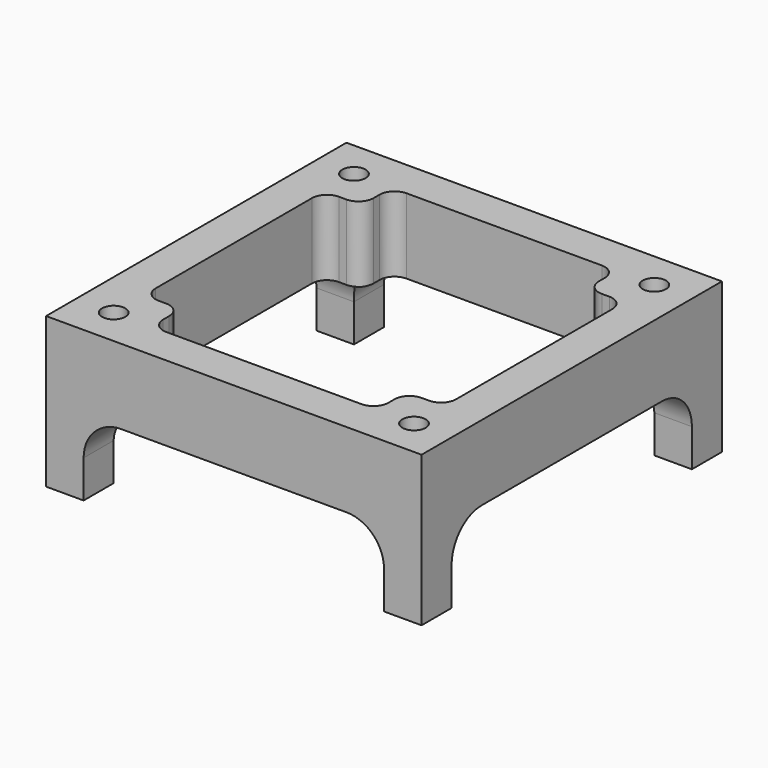
from build123d import *

# Parameters (mm, degrees)
SKETCH225_W             = 50
SKETCH225_H             = 50
PAD038_DEPTH            = 20
POCKET188_DEPTH         = 20.001
POCKET189_DEPTH         = 50.001
POCKET190_DEPTH         = 50.001
SKETCH229_R             = 1.55
POCKET191_DEPTH         = 5
SKETCH230_R             = 1.55
POCKET192_DEPTH         = 3
SKETCH231_R             = 1.55
POCKET193_DEPTH         = 3
BODY039_PLACEMENT_ANGLE = 90


with BuildPart() as part:
    # Sketch225 → Pad038 (new body)
    with BuildSketch(Plane.XY):
        Rectangle(SKETCH225_W, SKETCH225_H)
    extrude(amount=PAD038_DEPTH)

    # Sketch226 (on Face6 of Pad038) → Pocket188 (cut, through all)
    with BuildSketch(Plane.XY.offset(20)):
        with BuildLine():
            Line((-18, 15), (-17, 15))
            ThreePointArc((-17, 15), (-15.585786, 15.585786), (-15, 17))
            Line((-15, 17), (-15, 18))
            ThreePointArc((-13, 20), (-14.414214, 19.414214), (-15, 18))
            Line((-13, 20), (13, 20))
            ThreePointArc((15, 18), (14.414214, 19.414214), (13, 20))
            Line((15, 18), (15, 17))
            ThreePointArc((15, 17), (15.585786, 15.585786), (17, 15))
            Line((17, 15), (18, 15))
            ThreePointArc((20, 13), (19.414214, 14.414214), (18, 15))
            Line((20, 13), (20, -13))
            ThreePointArc((18, -15), (19.414214, -14.414214), (20, -13))
            Line((18, -15), (17, -15))
            ThreePointArc((17, -15), (15.585786, -15.585786), (15, -17))
            Line((15, -17), (15, -18))
            ThreePointArc((13, -20), (14.414214, -19.414214), (15, -18))
            Line((13, -20), (-13, -20))
            ThreePointArc((-15, -18), (-14.414214, -19.414214), (-13, -20))
            Line((-15, -18), (-15, -17))
            ThreePointArc((-15, -17), (-15.585786, -15.585786), (-17, -15))
            Line((-17, -15), (-18, -15))
            ThreePointArc((-20, -13), (-19.414214, -14.414214), (-18, -15))
            Line((-20, -13), (-20, 13))
            ThreePointArc((-18, 15), (-19.414214, 14.414214), (-20, 13))
        make_face()
    extrude(amount=-POCKET188_DEPTH, mode=Mode.SUBTRACT)

    # Sketch227 (on Face3 of Pocket188) → Pocket189 (cut, through all)
    with BuildSketch(Plane.YZ.offset(25)):
        with BuildLine():
            Line((-15, 10), (15, 10))
            ThreePointArc((20, 5), (18.535534, 8.535534), (15, 10))
            Line((20, 5), (20, 0))
            Line((20, 0), (-20, 0))
            Line((-20, 0), (-20, 5))
            ThreePointArc((-15, 10), (-18.535534, 8.535534), (-20, 5))
        make_face()
    extrude(amount=-POCKET189_DEPTH, mode=Mode.SUBTRACT)

    # Sketch228 (on Face6 of Pocket188) → Pocket190 (cut, through all)
    with BuildSketch(Plane.XZ.offset(25)):
        with BuildLine():
            Line((-15, 10), (15, 10))
            ThreePointArc((20, 5), (18.535534, 8.535534), (15, 10))
            Line((20, 5), (20, 0))
            Line((20, 0), (-20, 0))
            Line((-20, 0), (-20, 5))
            ThreePointArc((-15, 10), (-18.535534, 8.535534), (-20, 5))
        make_face()
    extrude(amount=-POCKET190_DEPTH, mode=Mode.SUBTRACT)

    # Sketch229 → Pocket191 (cut)
    with BuildSketch(Plane.XY.offset(20)):
        with Locations((-20, 20)):
            Circle(SKETCH229_R)
        with Locations((20, 20)):
            Circle(SKETCH229_R)
        with Locations((20, -20)):
            Circle(SKETCH229_R)
        with Locations((-20, -20)):
            Circle(SKETCH229_R)
    extrude(amount=-POCKET191_DEPTH, mode=Mode.SUBTRACT)

    # Sketch230 (on Face27 of Pocket191) → Pocket192 (cut)
    with BuildSketch(Plane.XZ.offset(25)):
        with Locations((-20, 14)):
            Circle(SKETCH230_R)
        with Locations((20, 14)):
            Circle(SKETCH230_R)
    extrude(amount=-POCKET192_DEPTH, mode=Mode.SUBTRACT)

    # Sketch231 (on Face11 of Pocket192) → Pocket193 (cut)
    with BuildSketch(Plane(origin=(-25, 0, 0), x_dir=(0, -1, 0), z_dir=(-1, 0, 0))):
        with Locations((-20, 14)):
            Circle(SKETCH231_R)
        with Locations((20, 14)):
            Circle(SKETCH231_R)
    extrude(amount=-POCKET193_DEPTH, mode=Mode.SUBTRACT)


with BuildPart() as part_1:
    # Body039 placement: moved
    add(part.part.moved(Location((25, 145, 0))).rotate(Axis((25, 145, 0), (0, 0, -1)), BODY039_PLACEMENT_ANGLE))


solid = part_1.part
